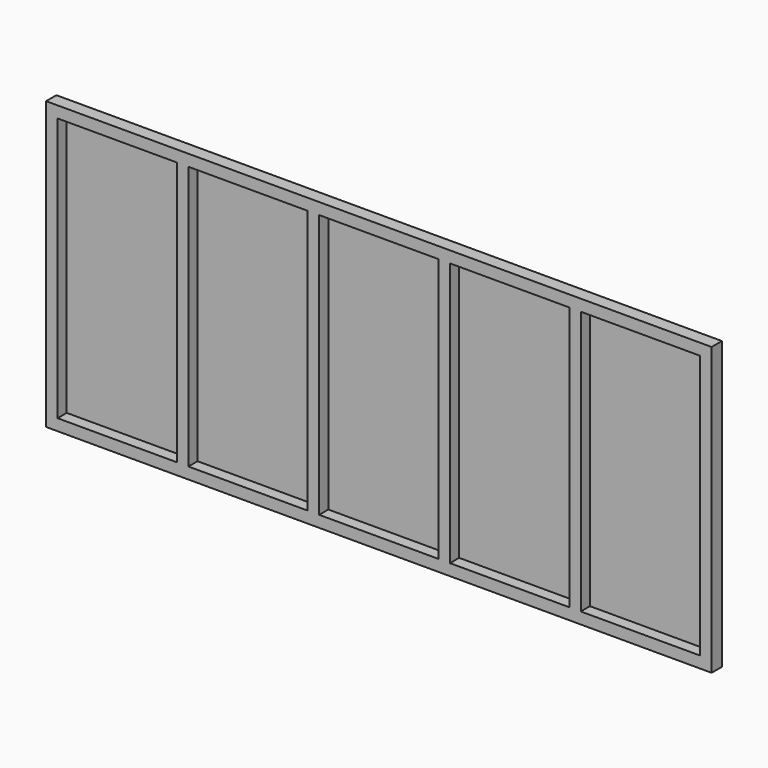
from build123d import *

# Parameters (mm, degrees)
F0_W     = 1473.2
F0_H     = 635
F1_DEPTH = 3.175
F2_W     = 25.4
F2_H     = 584.2
F3_DEPTH = 25.4


with BuildPart() as f1:
    # F0 (on Front) → F1 (new body)
    with BuildSketch(Plane.XZ):
        with Locations((736.6, 317.5)):
            Rectangle(F0_W, F0_H)
    extrude(amount=F1_DEPTH)

    # F2 (on face) → F3 (join)
    with BuildSketch(Plane.XZ.offset(3.175)):
        Polygon((0, 25.4), (0, 0), (1473.2, 0), (1473.2, 25.4), (1447.8, 25.4), (1183.64, 25.4), (1158.24, 25.4), (894.08, 25.4), (868.68, 25.4), (604.52, 25.4), (579.12, 25.4), (314.96, 25.4), (289.56, 25.4), (25.4, 25.4), align=None)
        with Locations((12.7, 317.5)):
            Rectangle(F2_W, F2_H)
        with Locations((1460.5, 317.5)):
            Rectangle(F2_W, F2_H)
        Polygon((0, 635), (0, 609.6), (25.4, 609.6), (289.56, 609.6), (314.96, 609.6), (579.12, 609.6), (604.52, 609.6), (868.68, 609.6), (894.08, 609.6), (1158.24, 609.6), (1183.64, 609.6), (1447.8, 609.6), (1473.2, 609.6), (1473.2, 635), align=None)
        with Locations((302.26, 317.5)):
            Rectangle(F2_W, F2_H)
        with Locations((591.82, 317.5)):
            Rectangle(F2_W, F2_H)
        with Locations((881.38, 317.5)):
            Rectangle(F2_W, F2_H)
        with Locations((1170.94, 317.5)):
            Rectangle(F2_W, F2_H)
    extrude(amount=F3_DEPTH)


solid = f1.part
